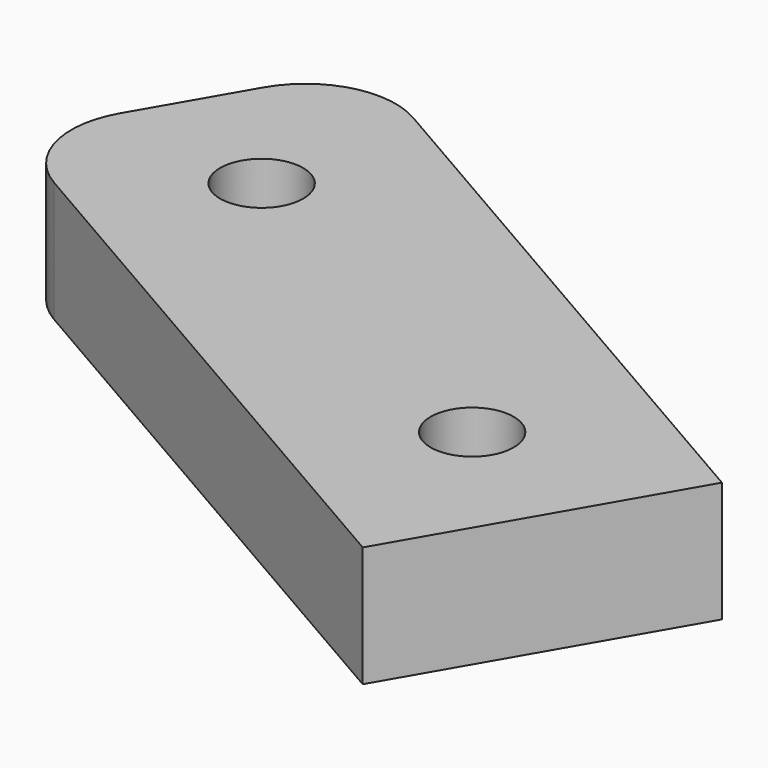
from build123d import *

# Parameters (mm, degrees)
CYLINDER045_R          = 1.38
CYLINDER045_DEPTH      = 10
CYLINDER044_R          = 1.38
CYLINDER044_DEPTH      = 10
BOX026_W               = 25
BOX026_H               = 10
BOX026_DEPTH           = 4
CUT024_PLACEMENT_ANGLE = 30
FILLET001_R            = 3


with BuildPart() as cylinder045:
    # Cylinder045 → Cylinder045 (new body)
    with BuildSketch(Plane(origin=(25, 52, 59), x_dir=(1, 0, 0), z_dir=(0, 0, 1))):
        Circle(CYLINDER045_R)
    extrude(amount=CYLINDER045_DEPTH)


with BuildPart() as cylinder044:
    # Cylinder044 → Cylinder044 (new body)
    with BuildSketch(Plane(origin=(40, 52, 59), x_dir=(1, 0, 0), z_dir=(0, 0, 1))):
        Circle(CYLINDER044_R)
    extrude(amount=CYLINDER044_DEPTH)


with BuildPart() as fillet001:
    # Box026 → Box026 (new body)
    with BuildSketch(Plane(origin=(45, 57, 62), x_dir=(-1, 0, 0), z_dir=(0, 0, 1))):
        with Locations((12.5, 5)):
            Rectangle(BOX026_W, BOX026_H)
    extrude(amount=BOX026_DEPTH)

    # Cut025: cut Cylinder044
    add(cylinder044.part, mode=Mode.SUBTRACT)

    # Cut024: cut Cylinder045
    add(cylinder045.part, mode=Mode.SUBTRACT)


with BuildPart() as fillet001_1:
    # Cut024 placement: moved
    add(fillet001.part.moved(Location((-20.65, 26.95, 0))).rotate(Axis((-20.65, 26.95, 0), (0, 0, -1)), CUT024_PLACEMENT_ANGLE))

    # Fillet001
    fillet001_edges = [fillet001_1.edges().sort_by_distance(p)[0] for p in [
        (25.170508, 66.313448, 64),
        (20.170508, 57.653194, 64),
    ]]
    fillet(fillet001_edges, radius=FILLET001_R)


with BuildPart() as fillet001_2:
    # Fillet001 placement: moved
    add(fillet001_1.part.moved(Location((-2, 5, 0))))


solid = fillet001_2.part
